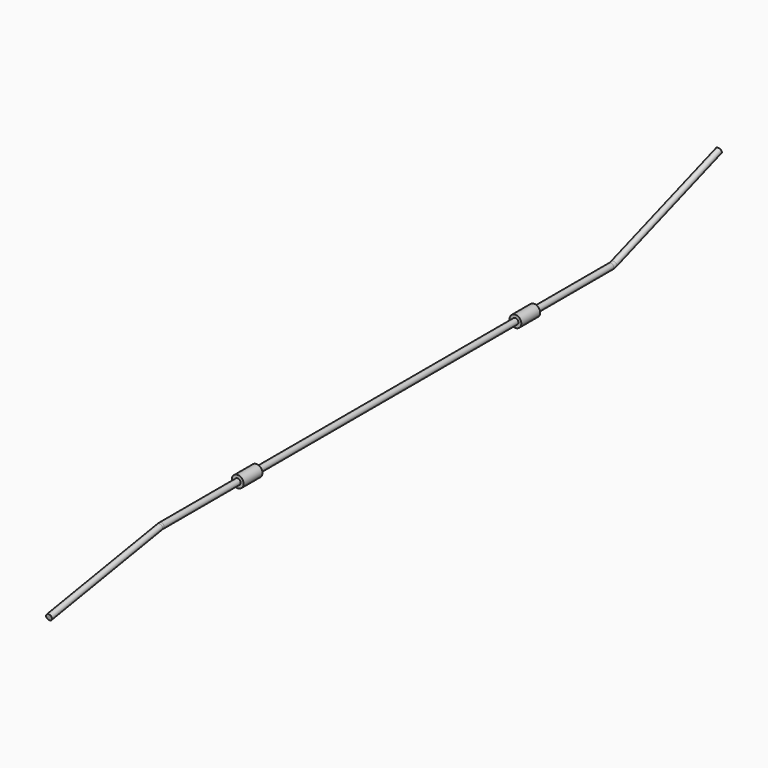
from build123d import *

# Parameters (mm, degrees)
F2_R     = 3.175
F4_R     = 6.35
F4_R_2   = 3.175
F5_DEPTH = 25.4


with BuildPart() as f3:
    # F3: sweep along a path in F0
    with BuildLine(Plane.YZ) as f3_path:
        Line((449.040692, 50.8), (307.410952, 0.726325))
        ThreePointArc((307.410952, 0.726325), (305.325214, 0.182898), (303.177619, 0))
        Line((303.177619, 0), (-303.177619, 0))
        ThreePointArc((-303.177619, 0), (-304.239672, -0.044486), (-305.294286, -0.177631))
        Line((-305.294286, -0.177631), (-454.511832, -25.4))
    # F2 (on face) → F3 (sweep)
    with BuildSketch(Plane(origin=(0, 415.112182, 146.764319), x_dir=(-1, 0, 0), z_dir=(0, 0.942809, 0.333333))):
        with Locations((0, -101.785531)):
            Circle(F2_R)
    sweep(path=f3_path.line)


with BuildPart() as f5:
    # F4 (on Front) → F5 (new body)
    with BuildSketch(Plane.XZ):
        Circle(F4_R)
        Circle(F4_R_2, mode=Mode.SUBTRACT)
    extrude(amount=F5_DEPTH)


with BuildPart() as f5_1:
    # F6: moved
    add(f5.part.moved(Location((0, 200, 0))))


with BuildPart() as f7_1:
    # F7: instance of F5
    add(f5_1.part.mirror(Plane.XZ))


solid = Compound([f3.part, f5_1.part, f7_1.part])
